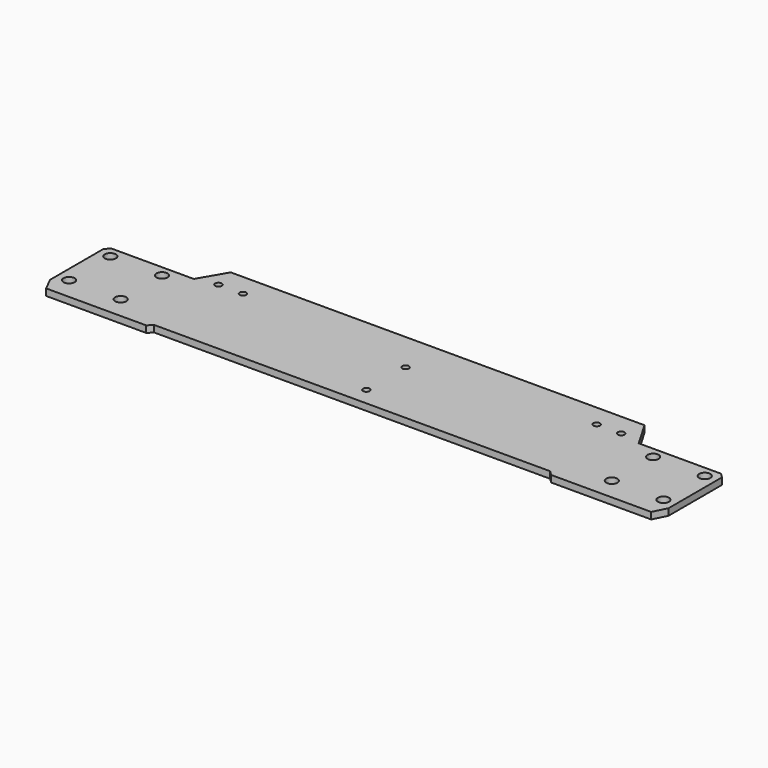
from build123d import *

# Parameters (mm, degrees)
SKETCH_R     = 2.5
SKETCH_R_2   = 1.5
PAD_DEPTH    = 3
SKETCH001_R  = 1.5
POCKET_DEPTH = 3.001


with BuildPart() as part:
    # Sketch → Pad (new body)
    with BuildSketch(Plane.XY):
        Polygon((0, 50), (0, 2), (-89, 2), (-91, 0), (-136, 0), (-139, 6), (-139, 36), (-137.020835, 38), (-100, 38), (-93, 50), align=None)
        with Locations((-133.6, 33.1)):
            Circle(SKETCH_R, mode=Mode.SUBTRACT)
        with Locations((-110.4, 33.1)):
            Circle(SKETCH_R, mode=Mode.SUBTRACT)
        with Locations((-110.4, 9.9)):
            Circle(SKETCH_R, mode=Mode.SUBTRACT)
        with Locations((-133.6, 9.9)):
            Circle(SKETCH_R, mode=Mode.SUBTRACT)
        with Locations((-90.5, 40)):
            Circle(SKETCH_R_2, mode=Mode.SUBTRACT)
        with Locations((-79.5, 40)):
            Circle(SKETCH_R_2, mode=Mode.SUBTRACT)
    pad = extrude(amount=PAD_DEPTH)

    # Mirrored: Pad across Sketch V_Axis
    add(pad.mirror(Plane(origin=(0, 0, 0), x_dir=(0, 0, 1), z_dir=(1, 0, 0))))

    # Sketch001 → Pocket (cut, through all)
    with BuildSketch(Plane.XY.offset(3)):
        with Locations((0, 32)):
            Circle(SKETCH001_R)
        with Locations((0, 10)):
            Circle(SKETCH001_R)
    extrude(amount=-POCKET_DEPTH, mode=Mode.SUBTRACT)


solid = part.part
